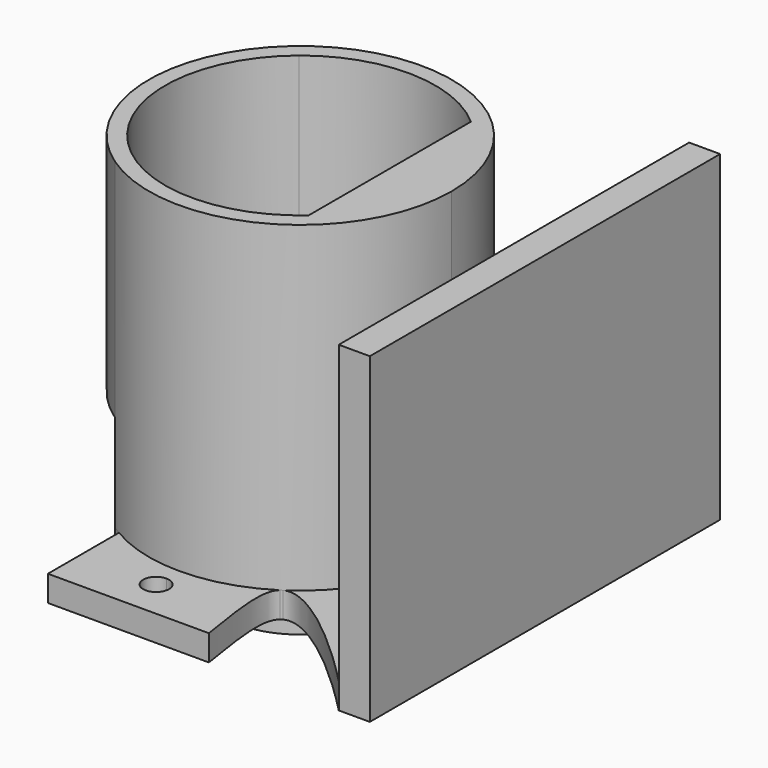
from build123d import *

# Parameters (mm, degrees)
F1_DEPTH = 2
F2_DEPTH = 25
F3_DEPTH = 6
F4_DEPTH = 4
F5_DEPTH = 7.5
F6_W     = 2.410814777
F6_H     = 34
F7_DEPTH = 2
F8_DEPTH = 25


with BuildPart() as f1:
    # F0 (on Top) → F1 (new body)
    with BuildSketch(Plane.XY):
        with BuildLine():
            Line((-6.7297284225, 9.6318874245), (-6.62, 8.1501901818))
            ThreePointArc((-6.62, 8.1501901818), (0.2169015369, 10.4977594621), (6.951, 7.8697902767))
            ThreePointArc((6.951, 7.8697902767), (10.5, 0), (6.951, -7.8697902767))
            ThreePointArc((6.951, -7.8697902767), (0.2169015369, -10.4977594621), (-6.62, -8.1501901818))
            Line((-6.62, -8.1501901818), (-6.62, -9.7076310189))
            ThreePointArc((-6.62, -9.7076310189), (5.4898770478, -10.3886356178), (11.75, 0))
            ThreePointArc((11.75, 0), (5.4308466667, 10.4196163309), (-6.7297284225, 9.6318874245))
        make_face()
        with BuildLine():
            ThreePointArc((-6.62, -8.1501901818), (-10.5, 0), (-6.62, 8.1501901818))
            Line((-6.62, 8.1501901818), (-6.7297284225, 9.6318874245))
            ThreePointArc((-6.7297284225, 9.6318874245), (-11.749810877, -0.0666659936), (-6.62, -9.7076310189))
            Line((-6.62, -9.7076310189), (-6.62, -8.1501901818))
        make_face()
        with BuildLine():
            Line((-6.62, 8.1501901818), (-6.62, 0))
            Line((-6.62, 0), (-6.62, -8.1501901818))
            ThreePointArc((-6.62, -8.1501901818), (0.2169015369, -10.4977594621), (6.951, -7.8697902767))
            Line((6.951, -7.8697902767), (6.951, 7.8697902767))
            ThreePointArc((6.951, 7.8697902767), (0.2169015369, 10.4977594621), (-6.62, 8.1501901818))
        make_face()
        with BuildLine():
            ThreePointArc((6, 0), (0, -6), (-6, 0))
            ThreePointArc((-6, 0), (0, 6), (6, 0))
        make_face(mode=Mode.SUBTRACT)
        with BuildLine():
            ThreePointArc((6, 0), (0, 6), (-6, 0))
            ThreePointArc((-6, 0), (0, -6), (6, 0))
        make_face()
        with BuildLine():
            ThreePointArc((5.0361404657, 0), (0, -5.0361404657), (-5.0361404657, 0))
            ThreePointArc((-5.0361404657, 0), (0, 5.0361404657), (5.0361404657, 0))
        make_face(mode=Mode.SUBTRACT)
        with BuildLine():
            ThreePointArc((5.0361404657, 0), (0, 5.0361404657), (-5.0361404657, 0))
            ThreePointArc((-5.0361404657, 0), (0, -5.0361404657), (5.0361404657, 0))
        make_face()
        with BuildLine():
            ThreePointArc((6.951, -7.8697902767), (10.5, 0), (6.951, 7.8697902767))
            Line((6.951, 7.8697902767), (6.951, -7.8697902767))
        make_face()
    extrude(amount=-F1_DEPTH)

    # F0 (on Top) → F2 (join)
    with BuildSketch(Plane.XY):
        with BuildLine():
            Line((-6.7297284225, 9.6318874245), (-6.62, 8.1501901818))
            ThreePointArc((-6.62, 8.1501901818), (0.2169015369, 10.4977594621), (6.951, 7.8697902767))
            ThreePointArc((6.951, 7.8697902767), (10.5, 0), (6.951, -7.8697902767))
            ThreePointArc((6.951, -7.8697902767), (0.2169015369, -10.4977594621), (-6.62, -8.1501901818))
            Line((-6.62, -8.1501901818), (-6.62, -9.7076310189))
            ThreePointArc((-6.62, -9.7076310189), (5.4898770478, -10.3886356178), (11.75, 0))
            ThreePointArc((11.75, 0), (5.4308466667, 10.4196163309), (-6.7297284225, 9.6318874245))
        make_face()
        with BuildLine():
            ThreePointArc((-6.62, -8.1501901818), (-10.5, 0), (-6.62, 8.1501901818))
            Line((-6.62, 8.1501901818), (-6.7297284225, 9.6318874245))
            ThreePointArc((-6.7297284225, 9.6318874245), (-11.749810877, -0.0666659936), (-6.62, -9.7076310189))
            Line((-6.62, -9.7076310189), (-6.62, -8.1501901818))
        make_face()
        with BuildLine():
            ThreePointArc((6.951, -7.8697902767), (10.5, 0), (6.951, 7.8697902767))
            Line((6.951, 7.8697902767), (6.951, -7.8697902767))
        make_face()
    extrude(amount=F2_DEPTH)

    # F0 (on Top) → F3 (join)
    with BuildSketch(Plane.XY):
        with BuildLine():
            ThreePointArc((6, 0), (0, 6), (-6, 0))
            ThreePointArc((-6, 0), (0, -6), (6, 0))
        make_face()
        with BuildLine():
            ThreePointArc((5.0361404657, 0), (0, -5.0361404657), (-5.0361404657, 0))
            ThreePointArc((-5.0361404657, 0), (0, 5.0361404657), (5.0361404657, 0))
        make_face(mode=Mode.SUBTRACT)
        with BuildLine():
            ThreePointArc((5.0361404657, 0), (0, 5.0361404657), (-5.0361404657, 0))
            ThreePointArc((-5.0361404657, 0), (0, -5.0361404657), (5.0361404657, 0))
        make_face()
    extrude(amount=-F3_DEPTH)

    # F0 (on Top) → F4 (cut)
    with BuildSketch(Plane.XY):
        with BuildLine():
            ThreePointArc((5.0361404657, 0), (0, 5.0361404657), (-5.0361404657, 0))
            ThreePointArc((-5.0361404657, 0), (0, -5.0361404657), (5.0361404657, 0))
        make_face()
    extrude(amount=-F4_DEPTH, mode=Mode.SUBTRACT)

    # F0 (on Top) → F5 (cut, symmetric)
    with BuildSketch(Plane.XY):
        with BuildLine():
            ThreePointArc((-6.62, -8.1501901818), (-10.5, 0), (-6.62, 8.1501901818))
            Line((-6.62, 8.1501901818), (-6.7297284225, 9.6318874245))
            ThreePointArc((-6.7297284225, 9.6318874245), (-11.749810877, -0.0666659936), (-6.62, -9.7076310189))
            Line((-6.62, -9.7076310189), (-6.62, -8.1501901818))
        make_face()
    extrude(amount=F5_DEPTH, both=True, mode=Mode.SUBTRACT)

    # F6 (on face) → F7 (join)
    with BuildSketch(Plane(origin=(0, 0, -2), x_dir=(1, 0, 0), z_dir=(0, 0, -1))):
        with BuildLine():
            add(Edge.make_bspline(
                [(6.5, 9.7883859752), (7.9509627356, 9.0697935318), (12.2177111532, 12.5251344048), (16.589185223, 17)],
                knots=[0.4326455833, 0.4326455833, 0.4326455833, 0.4326455833, 1, 1, 1, 1], degree=3))
            ThreePointArc((6.5, 9.7883859752), (11.75, 0), (6.5, -9.7883859752))
            add(Edge.make_bspline(
                [(6.5, -9.7883859752), (7.9509627356, -9.0697935318), (12.2177111532, -12.5251344048), (16.589185223, -17)],
                knots=[0.4326455833, 0.4326455833, 0.4326455833, 0.4326455833, 1, 1, 1, 1], degree=3))
            Line((16.589185223, -17), (16.589185223, 17))
        make_face()
        with BuildLine():
            ThreePointArc((6.3446577013, -9.8897835494), (3.3058692726, -11.2753593447), (0, -11.75))
            ThreePointArc((0, -11.75), (-3.1110260013, -11.3306671127), (-6, -10.1025986756))
            Line((-6, -10.1025986756), (-6, -17))
            Line((-6, -17), (6.5, -17))
            add(Edge.make_bspline(
                [(6.5, -17), (5.9535607354, -13.4978269056), (5.4472970387, -10.6387474187), (6.3446577013, -9.8897835494)],
                knots=[0, 0, 0, 0, 0.4107914195, 0.4107914195, 0.4107914195, 0.4107914195], degree=3))
        make_face()
        with BuildLine():
            ThreePointArc((1, -14), (-0.7071067812, -14.7071067812), (0, -13))
            ThreePointArc((0, -13), (0.7071067812, -13.2928932188), (1, -14))
        make_face(mode=Mode.SUBTRACT)
        with BuildLine():
            ThreePointArc((-6, 10.1025986756), (-3.1110260013, 11.3306671127), (0, 11.75))
            ThreePointArc((0, 11.75), (3.3058692726, 11.2753593447), (6.3446577013, 9.8897835494))
            add(Edge.make_bspline(
                [(6.5, 17), (5.9535607354, 13.4978269056), (5.4472970387, 10.6387474187), (6.3446577013, 9.8897835494)],
                knots=[0, 0, 0, 0, 0.4107914195, 0.4107914195, 0.4107914195, 0.4107914195], degree=3))
            Line((6.5, 17), (-6, 17))
            Line((-6, 17), (-6, 10.1025986756))
        make_face()
        with BuildLine():
            ThreePointArc((1, 14), (0.7071067812, 13.2928932188), (0, 13))
            ThreePointArc((0, 13), (-0.7071067812, 14.7071067812), (1, 14))
        make_face(mode=Mode.SUBTRACT)
        with Locations((17.7945926115, 0)):
            Rectangle(F6_W, F6_H)
    extrude(amount=-F7_DEPTH)

    # F6 (on face) → F8 (join)
    with BuildSketch(Plane(origin=(0, 0, -2), x_dir=(1, 0, 0), z_dir=(0, 0, -1))):
        with Locations((17.7945926115, 0)):
            Rectangle(F6_W, F6_H)
    extrude(amount=-F8_DEPTH)


solid = f1.part
